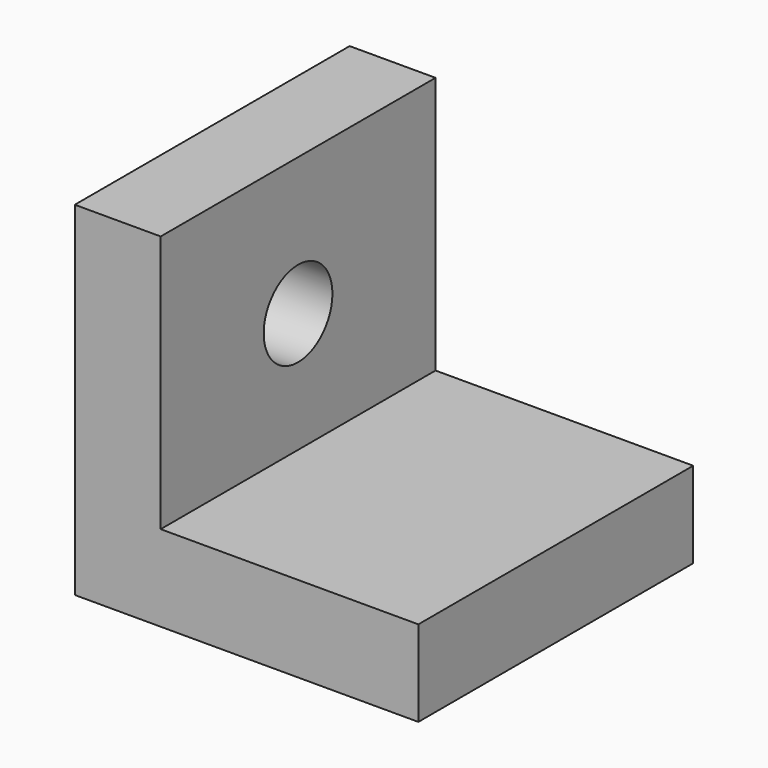
from build123d import *

# Parameters (mm, degrees)
F0_W     = 12.7
F0_H     = 50.8
F1_DEPTH = 50.8
F0_W_2   = 38.1
F2_DEPTH = 12.7
F3_R     = 6.35
F4_DEPTH = 49.784


with BuildPart() as f1:
    # F0 (on Top) → F1 (new body)
    with BuildSketch(Plane.XY):
        with Locations((-22.050375, -12.215671)):
            Rectangle(F0_W, F0_H)
    extrude(amount=F1_DEPTH)

    # F0 (on Top) → F2 (join)
    with BuildSketch(Plane.XY):
        with Locations((3.349625, -12.215671)):
            Rectangle(F0_W_2, F0_H)
    extrude(amount=F2_DEPTH)

    # F3 (on Right) → F4 (cut)
    with BuildSketch(Plane.YZ):
        with Locations((-12.22375, 30.448252)):
            Circle(F3_R)
    extrude(amount=-F4_DEPTH, mode=Mode.SUBTRACT)


solid = f1.part
